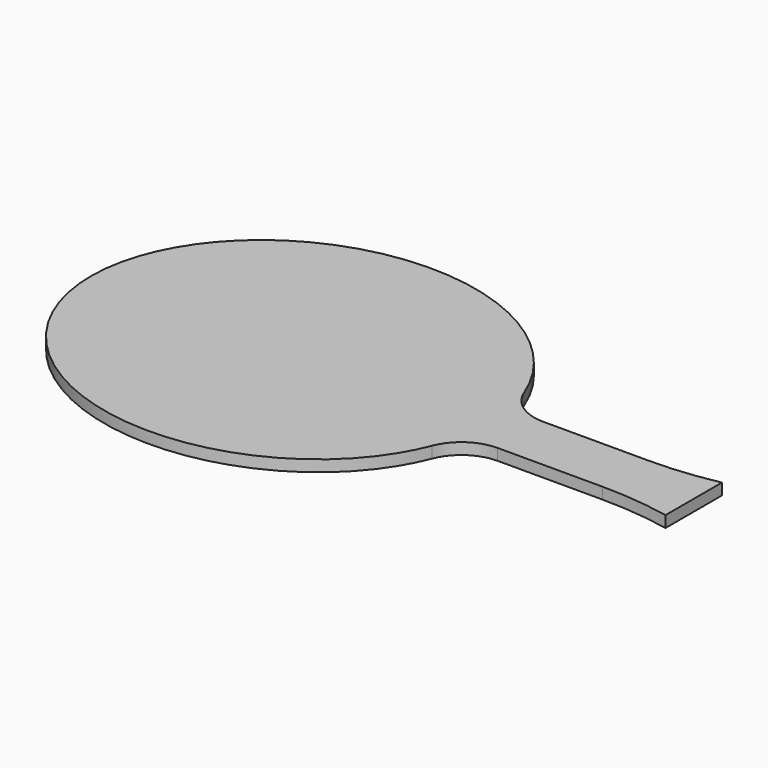
from build123d import *

# Parameters (mm, degrees)
F1_DEPTH = 5


with BuildPart() as f1:
    # F0 (on Top) → F1 (new body)
    with BuildSketch(Plane.XY):
        with BuildLine():
            ThreePointArc((-345.4829788193, -57.2532826662), (-356.7738958186, -53.7613168712), (-364.1220632224, -44.5048019976))
            add(Edge.make_bspline(
                [(-364.1220632224, -44.5048019976), (-402.8752131094, 55.1051140242), (-498.6959522875, -7.324084321), (-594.5166914657, -69.7532826662), (-498.6959522875, -132.1824810114), (-402.8752131094, -194.6116793566), (-364.1220632224, -95.0017633348)],
                knots=[0.3318438612, 0.3318438612, 0.3318438612, 2.2050097228, 2.2050097228, 4.0781755844, 4.0781755844, 5.951341446, 5.951341446, 5.951341446], degree=2, weights=[1, 0.5925440583, 1, 0.5925440583, 1, 0.5925440583, 1]))
            ThreePointArc((-364.1220632224, -95.0017633348), (-356.7738958186, -85.7452484612), (-345.4829788193, -82.2532826662))
            Line((-345.4829788193, -82.2532826662), (-379.348347187, -82.2532826662))
            Line((-379.348347187, -82.2532826662), (-379.348347187, -57.2532826662))
            Line((-379.348347187, -57.2532826662), (-345.4829788193, -57.2532826662))
        make_face()
        Polygon((-299.348347187, -57.2532826662), (-345.4829788193, -57.2532826662), (-379.348347187, -57.2532826662), (-379.348347187, -82.2532826662), (-345.4829788193, -82.2532826662), (-299.348347187, -82.2532826662), (-269.348347187, -82.2532826662), (-269.348347187, -57.2532826662), align=None)
        with BuildLine():
            ThreePointArc((-269.348347187, -54.2532826662), (-284.2735337554, -56.501416983), (-299.348347187, -57.2532826662))
            Line((-299.348347187, -57.2532826662), (-269.348347187, -57.2532826662))
            Line((-269.348347187, -57.2532826662), (-269.348347187, -54.2532826662))
        make_face()
        with BuildLine():
            Line((-269.348347187, -82.2532826662), (-299.348347187, -82.2532826662))
            ThreePointArc((-299.348347187, -82.2532826662), (-284.2735337554, -83.0051483494), (-269.348347187, -85.2532826662))
            Line((-269.348347187, -85.2532826662), (-269.348347187, -82.2532826662))
        make_face()
    extrude(amount=F1_DEPTH)


solid = f1.part
